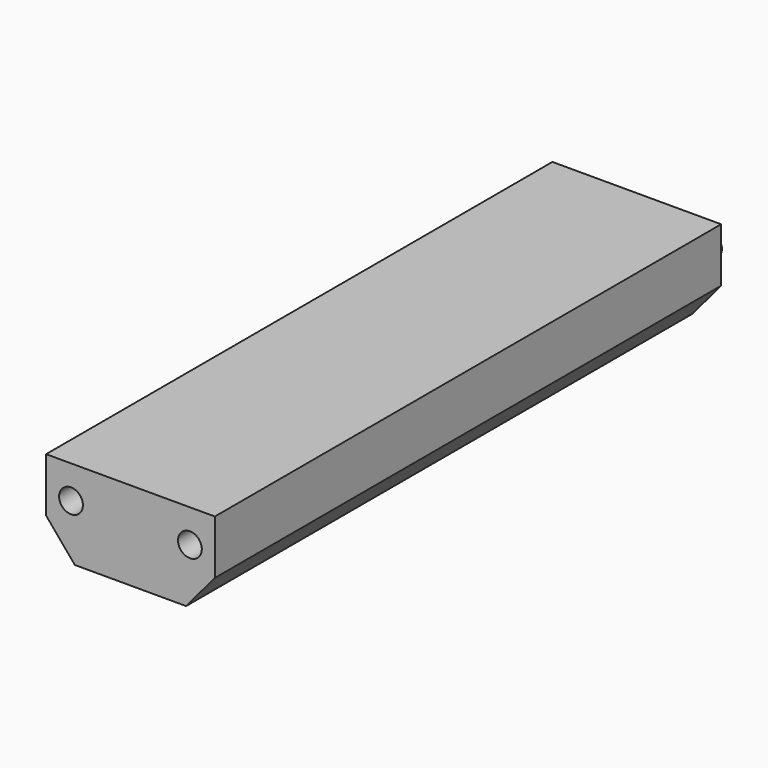
from build123d import *

# Parameters (mm, degrees)
F0_W     = 44
F0_H     = 14.099881
F0_R     = 3.1
F1_DEPTH = 165
F2_DEPTH = 4.5


with BuildPart() as f1:
    # F0 (on Front) → F1 (new body)
    with BuildSketch(Plane.XZ):
        with Locations((0, 7.04994)):
            Rectangle(F0_W, F0_H)
        with Locations((-15.5, 5.499881)):
            Circle(F0_R, mode=Mode.SUBTRACT)
        with Locations((15.5, 5.499881)):
            Circle(F0_R, mode=Mode.SUBTRACT)
        with BuildLine():
            ThreePointArc((-22, 0), (-16.614167, -3.071567), (-14.5, -8.900119))
            Line((-14.5, -8.900119), (14.5, -8.900119))
            ThreePointArc((14.5, -8.900119), (16.614167, -3.071567), (22, 0))
            Line((22, 0), (-22, 0))
        make_face()
        with BuildLine():
            Line((-22, 0), (-14.5, -8.900119))
            ThreePointArc((-14.5, -8.900119), (-16.614167, -3.071567), (-22, 0))
        make_face()
        with BuildLine():
            ThreePointArc((22, 0), (16.614167, -3.071567), (14.5, -8.900119))
            Line((14.5, -8.900119), (22, 0))
        make_face()
    extrude(amount=F1_DEPTH)

    # F0 (on Front) → F2 (join)
    with BuildSketch(Plane.XZ):
        with Locations((-15.5, 5.499881)):
            Circle(F0_R)
        with Locations((15.5, 5.499881)):
            Circle(F0_R)
    extrude(amount=-F2_DEPTH)


solid = f1.part
